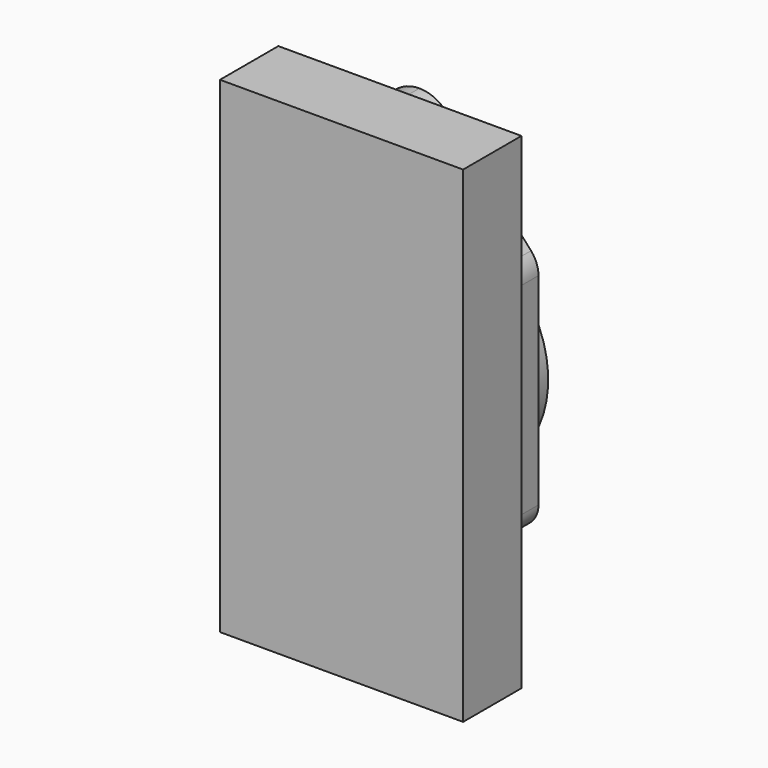
from build123d import *

# Parameters (mm, degrees)
F0_W     = 100
F0_H     = 200
F1_DEPTH = 30
F3_DEPTH = 10
F4_R     = 45
F4_R_2   = 5
F4_R_3   = 30
F5_DEPTH = 10
F6_DEPTH = 27
F7_DEPTH = 32
F9_DEPTH = 10


with BuildPart() as f1:
    # F0 (on Front) → F1 (new body)
    with BuildSketch(Plane.XZ):
        with Locations((50, -100)):
            Rectangle(F0_W, F0_H)
    extrude(amount=F1_DEPTH)

    # F2 (on face) → F3 (join)
    with BuildSketch(Plane(origin=(0, 0, 0), x_dir=(-1, 0, 0), z_dir=(0, 1, 0))):
        with BuildLine():
            ThreePointArc((-38.8196601125, -8.1037424163), (-43.876275643, -4.4106784786), (-50, -3.1037424163))
            ThreePointArc((-50, -3.1037424163), (-56.123724357, -4.4106784786), (-61.1803398875, -8.1037424163))
            Line((-61.1803398875, -8.1037424163), (-95.94427191, -46.971))
            ThreePointArc((-95.94427191, -46.971), (-98.2100683076, -50.6891349227), (-99, -54.971))
            Line((-99, -54.971), (-99, -138))
            ThreePointArc((-99, -138), (-96.0710678119, -145.0710678119), (-89, -148))
            Line((-89, -148), (-50, -148))
            Line((-50, -148), (-11, -148))
            ThreePointArc((-11, -148), (-3.9289321881, -145.0710678119), (-1, -138))
            Line((-1, -138), (-1, -54.971))
            ThreePointArc((-1, -54.971), (-1.7899316924, -50.6891349227), (-4.05572809, -46.971))
            Line((-4.05572809, -46.971), (-38.8196601125, -8.1037424163))
        make_face()
    extrude(amount=F3_DEPTH)

    # F4 (on face) → F5 (join)
    with BuildSketch(Plane(origin=(0, 10, 0), x_dir=(-1, 0, 0), z_dir=(0, 1, 0))):
        with Locations((-50, -98)):
            Circle(F4_R)
        with Locations((-50, -135.5)):
            Circle(F4_R_2, mode=Mode.SUBTRACT)
        with Locations((-87.5, -98)):
            Circle(F4_R_2, mode=Mode.SUBTRACT)
        with Locations((-50, -98)):
            Circle(F4_R_3, mode=Mode.SUBTRACT)
        with Locations((-12.5, -98)):
            Circle(F4_R_2, mode=Mode.SUBTRACT)
        with Locations((-50, -60.5)):
            Circle(F4_R_2, mode=Mode.SUBTRACT)
    extrude(amount=F5_DEPTH)

    # F6 (cut): faces of the model
    f6_faces = [f1.faces().sort_by_distance(p)[0] for p in [
        (50, 10, -135.5),
        (87.5, 10, -98),
        (50, 10, -60.5),
        (12.5, 10, -98),
    ]]
    extrude(f6_faces, amount=-F6_DEPTH, mode=Mode.SUBTRACT)

    # F7 (cut): a face of the model
    f7_faces = [f1.faces().sort_by_distance(p)[0] for p in [
        (50, 10, -98),
    ]]
    extrude(f7_faces, amount=-F7_DEPTH, mode=Mode.SUBTRACT)

    # F8 (on face) → F9 (cut)
    with BuildSketch(Plane(origin=(0, 0, 0), x_dir=(-1, 0, 0), z_dir=(0, 1, 0))):
        with BuildLine():
            ThreePointArc((-90, -177), (-86.4852813742, -185.4852813742), (-78, -189))
            Line((-78, -189), (-22, -189))
            ThreePointArc((-22, -189), (-13.5147186258, -185.4852813742), (-10, -177))
            Line((-10, -177), (-10, -171))
            ThreePointArc((-10, -171), (-13.5147186258, -162.5147186258), (-22, -159))
            Line((-22, -159), (-78, -159))
            ThreePointArc((-78, -159), (-86.4852813742, -162.5147186258), (-90, -171))
            Line((-90, -171), (-90, -177))
        make_face()
    extrude(amount=-F9_DEPTH, mode=Mode.SUBTRACT)


solid = f1.part
